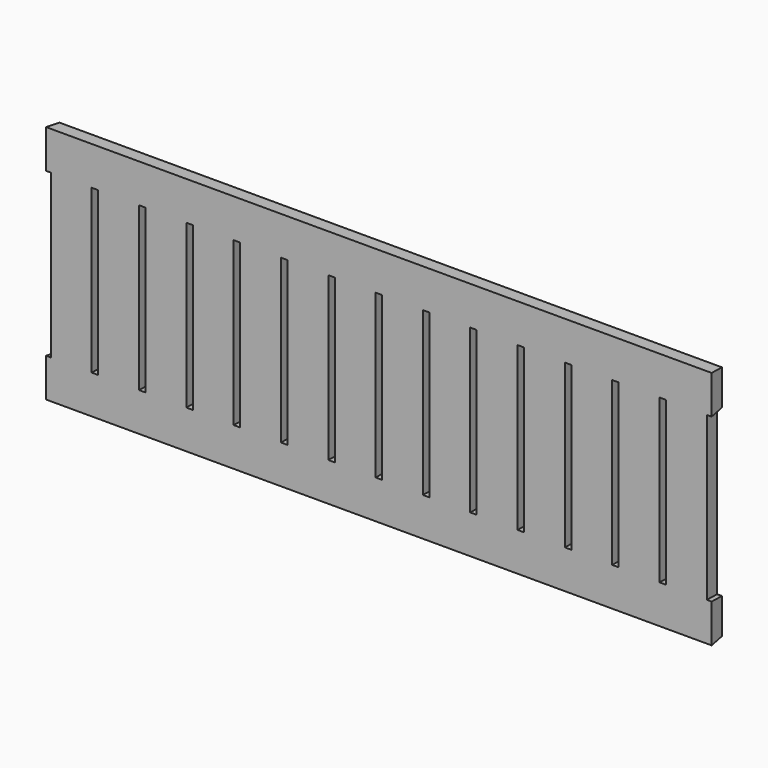
from build123d import *

# Parameters (mm, degrees)
F0_W     = 223.8385
F0_H     = 80
F1_DEPTH = 5
F1_TAPER = -6
F2_W     = 2.2
F2_H     = 55
F2_W_2   = 1.6255211763
F3_DEPTH = 25
F3_TAPER = -6


with BuildPart() as f1:
    # F0 (on Front) → F1 (new body)
    with BuildSketch(Plane.XZ):
        Rectangle(F0_W, F0_H)
    extrude(amount=F1_DEPTH, taper=F1_TAPER)

    # F2 (on face) → F3 (cut)
    with BuildSketch(Plane.XZ.offset(5)):
        with Locations((-95.9307857143, 0)):
            Rectangle(F2_W, F2_H)
        with Locations((-111.6320105882, 0)):
            Rectangle(F2_W_2, F2_H)
        with Locations((-79.9423214286, 0)):
            Rectangle(F2_W, F2_H)
        with Locations((-63.9538571429, 0)):
            Rectangle(F2_W, F2_H)
        with Locations((-47.9653928571, 0)):
            Rectangle(F2_W, F2_H)
        with Locations((-31.9769285714, 0)):
            Rectangle(F2_W, F2_H)
        with Locations((-15.9884642857, 0)):
            Rectangle(F2_W, F2_H)
        Rectangle(F2_W, F2_H)
        with Locations((15.9884642857, 0)):
            Rectangle(F2_W, F2_H)
        with Locations((31.9769285714, 0)):
            Rectangle(F2_W, F2_H)
        with Locations((63.9538571429, 0)):
            Rectangle(F2_W, F2_H)
        with Locations((47.9653928571, 0)):
            Rectangle(F2_W, F2_H)
        with Locations((79.9423214286, 0)):
            Rectangle(F2_W, F2_H)
        with Locations((95.9307857143, 0)):
            Rectangle(F2_W, F2_H)
        with Locations((111.6320105882, 0)):
            Rectangle(F2_W_2, F2_H)
    extrude(amount=-F3_DEPTH, taper=F3_TAPER, mode=Mode.SUBTRACT)


solid = f1.part
